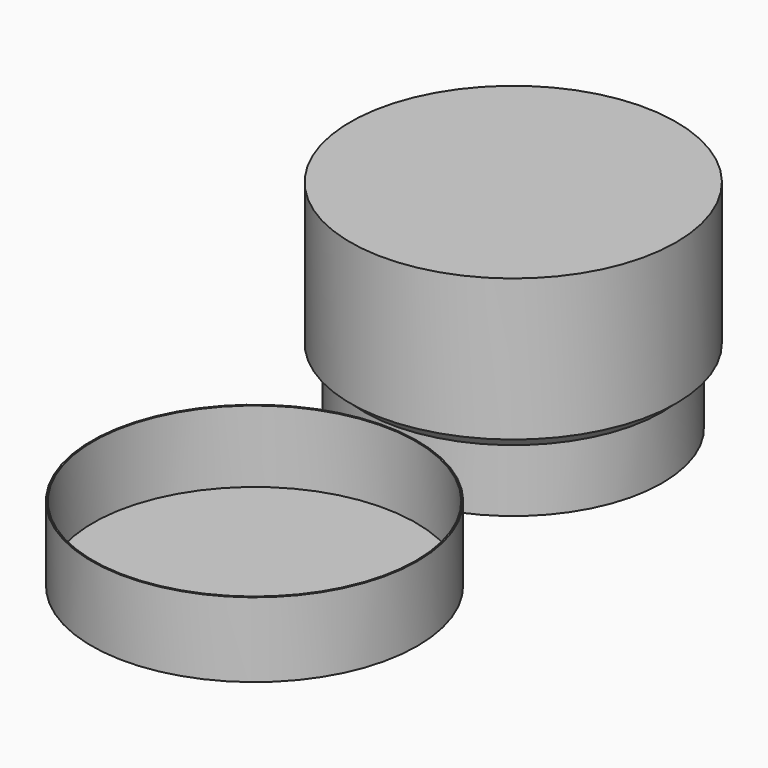
from build123d import *

# Parameters (mm, degrees)
SKETCH_R     = 65.5
PAD_DEPTH    = 30
SKETCH001_R  = 64.9
POCKET_DEPTH = 28.8
SKETCH002_R  = 59.9
PAD001_DEPTH = 30
SKETCH003_R  = 65.5
PAD002_DEPTH = 57
CHAMFER_SIZE = 4.9


with BuildPart() as tray:
    # Sketch → Pad (new body)
    with BuildSketch(Plane.XY):
        Circle(SKETCH_R)
    extrude(amount=PAD_DEPTH)

    # Sketch001 (on Face3 of Pad) → Pocket (cut)
    with BuildSketch(Plane.XY.offset(30)):
        Circle(SKETCH001_R)
    extrude(amount=-POCKET_DEPTH, mode=Mode.SUBTRACT)


with BuildPart() as tray_1:
    # Body placement: moved
    add(tray.part.moved(Location((0, -130, -3))))


with BuildPart() as liner:
    # Sketch002 → Pad001 (new body)
    with BuildSketch(Plane.XY):
        Circle(SKETCH002_R)
    extrude(amount=PAD001_DEPTH)

    # Sketch003 (on Face3 of Pad001) → Pad002 (join)
    with BuildSketch(Plane.XY.offset(30)):
        Circle(SKETCH003_R)
    extrude(amount=PAD002_DEPTH)

    # Chamfer
    chamfer_edges = [liner.edges().sort_by_distance(p)[0] for p in [
        (-59.9, 0, 30),
    ]]
    chamfer(chamfer_edges, length=CHAMFER_SIZE)


solid = Compound([tray_1.part, liner.part])
